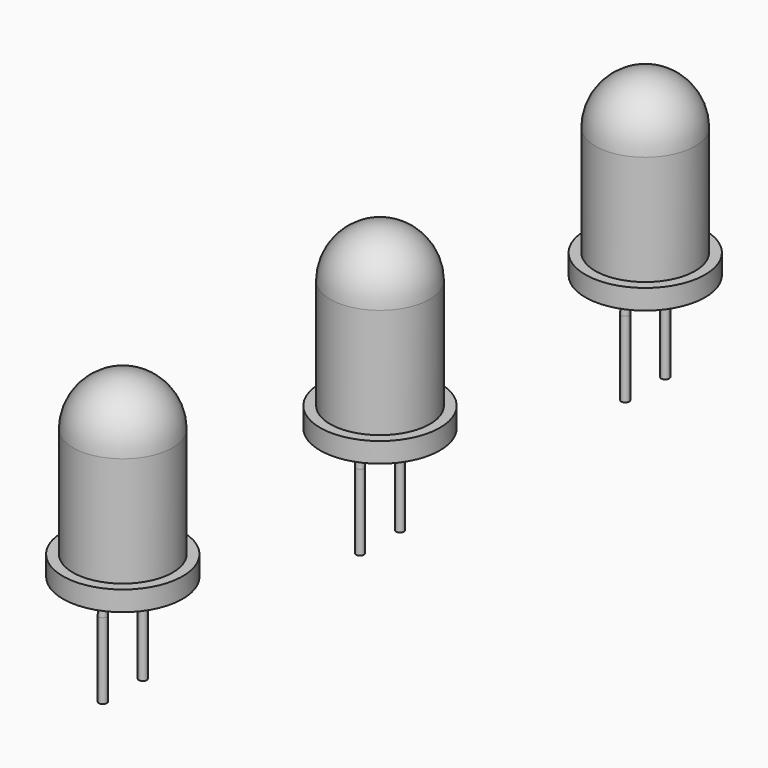
from build123d import *

# Parameters (mm, degrees)
F3_R = 0.2


with BuildPart() as f1:
    # F0 (on Right) → F1 (revolve)
    with BuildSketch(Plane.YZ):
        with BuildLine():
            Line((2.5, 1), (2.5, 6.5))
            ThreePointArc((2.5, 6.5), (1.767766953, 4.732233047), (0, 4))
            Line((0, 4), (0, 0))
            Line((0, 0), (3, 0))
            Line((3, 0), (3, 1))
            Line((3, 1), (2.5, 1))
        make_face()
        with BuildLine():
            ThreePointArc((0, 4), (1.767766953, 4.732233047), (2.5, 6.5))
            ThreePointArc((2.5, 6.5), (1.767766953, 8.267766953), (0, 9))
            Line((0, 9), (0, 6.5))
            Line((0, 6.5), (0, 4))
        make_face()
    revolve(axis=Axis((0, 0, 3.25), (0, 0, -1)))

    # F4: sweep along a path in F2
    with BuildLine(Plane.YZ) as f4_path:
        Line((1.2, 0), (1.2, -0.2))
        Line((1.2, -0.2), (1.25, -1.2))
        Line((1.25, -1.2), (1.25, -5))
    # F3 (on face) → F4 (sweep)
    with BuildSketch(Plane(origin=(0, 0, 0), x_dir=(1, 0, 0), z_dir=(0, 0, -1))):
        with Locations((0, -1.2)):
            Circle(F3_R)
    sweep(path=f4_path.line, transition=Transition.RIGHT)

    # F5: F1 across plane


with BuildPart() as f1_1:
    add(f1.part)
    add(f1.part.mirror(Plane.XZ))


with BuildPart() as f6_1:
    # F6: copy of F1
    add(f1_1.part.moved(Location((0, 16.1, 0))))


with BuildPart() as f7_1:
    # F7: copy of F6_1
    add(f6_1.part.moved(Location((0, 16.6, 0))))


solid = Compound([f1_1.part, f6_1.part, f7_1.part])
